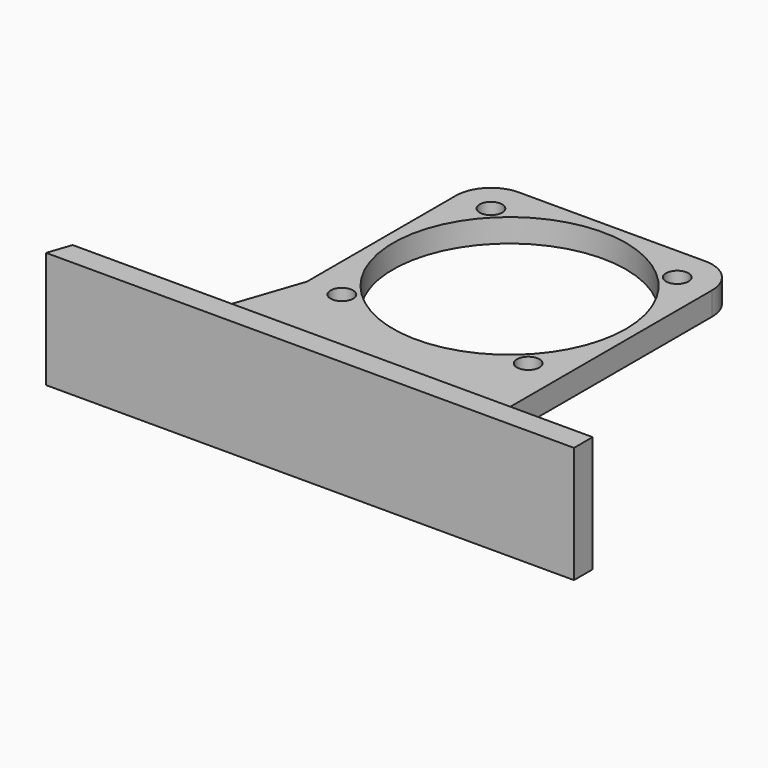
from build123d import *

# Parameters (mm, degrees)
SKETCH_R     = 1.45
SKETCH_R_2   = 15
PAD_DEPTH    = 3
PAD001_DEPTH = 12


with BuildPart() as part:
    # Sketch → Pad (new body)
    with BuildSketch(Plane.XY):
        with BuildLine():
            Line((-12, 16.5), (12, 16.5))
            ThreePointArc((16.5, 12), (15.181981, 15.181981), (12, 16.5))
            Line((16.5, 12), (16.5, -12))
            Line((16.5, -38.5), (16.5, -12))
            Line((41.5, -38.5), (16.5, -38.5))
            Line((41.5, -41.5), (41.5, -38.5))
            Line((-26.5, -41.5), (41.5, -41.5))
            Line((-16.5, -12), (-26.5, -41.5))
            Line((-16.5, -12), (-16.5, 12))
            ThreePointArc((-12, 16.5), (-15.181981, 15.181981), (-16.5, 12))
        make_face()
        with Locations((-12, 12)):
            Circle(SKETCH_R, mode=Mode.SUBTRACT)
        with Locations((12, 12)):
            Circle(SKETCH_R, mode=Mode.SUBTRACT)
        with Locations((-12, -12)):
            Circle(SKETCH_R, mode=Mode.SUBTRACT)
        with Locations((12, -12)):
            Circle(SKETCH_R, mode=Mode.SUBTRACT)
        Circle(SKETCH_R_2, mode=Mode.SUBTRACT)
    extrude(amount=PAD_DEPTH)

    # Sketch001 (on DatumPlane) → Pad001 (join)
    with BuildSketch(Plane.XY.offset(3)):
        Polygon((41.5, -38.5), (-25.483051, -38.5), (-26.5, -41.5), (41.5, -41.5), align=None)
    extrude(amount=PAD001_DEPTH)


solid = part.part
